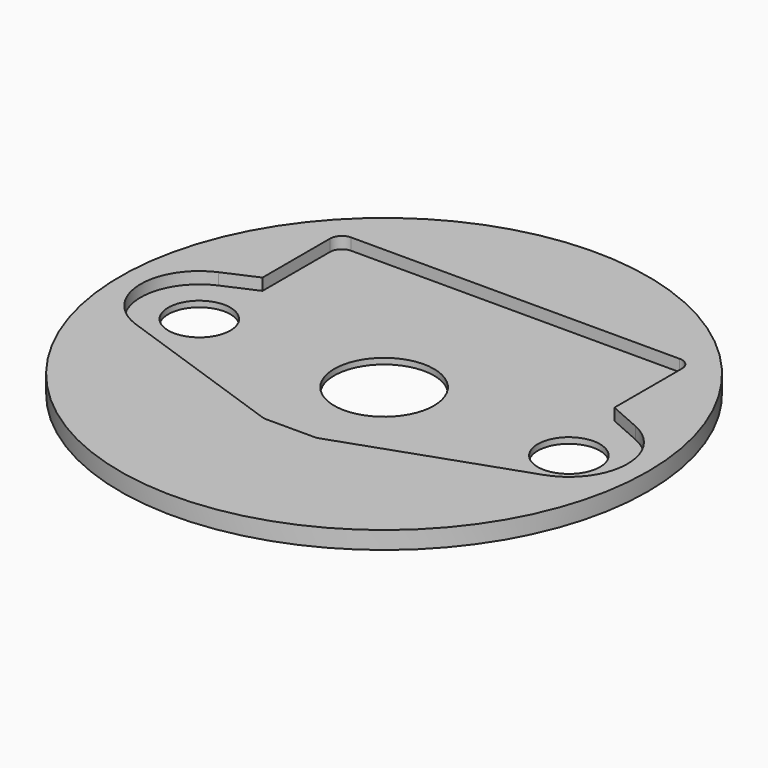
from build123d import *

# Parameters (mm, degrees)
SKETCH_R      = 22.5
PAD_DEPTH     = 1
SKETCH001_R   = 22.5
PAD001_DEPTH  = 0.5
SKETCH002_R   = 4.25
SKETCH002_R_2 = 2.65
POCKET_DEPTH  = 1.501
FILLET_R      = 1
FILLET001_R   = 1


with BuildPart() as part:
    # Sketch → Pad (new body)
    with BuildSketch(Plane.XY):
        Circle(SKETCH_R)
        with BuildLine():
            ThreePointArc((17.39553, -4.721465), (20.746006, -0.199818), (17.767345, 4.574967))
            Line((15, 5.795235), (17.767345, 4.574967))
            Line((15, 14), (15, 5.795235))
            Line((-15, 14), (15, 14))
            Line((-15, 14), (-15, 5.795235))
            Line((-17.767345, 4.574967), (-15, 5.795235))
            ThreePointArc((-17.767345, 4.574967), (-20.746006, -0.199818), (-17.39553, -4.721465))
            Line((-17.39553, -4.721465), (-2.25, -10))
            Line((-2.25, -10), (2.25, -10))
            Line((17.39553, -4.721465), (2.25, -10))
        make_face(mode=Mode.SUBTRACT)
    extrude(amount=PAD_DEPTH)

    # Sketch001 (on Face12 of Pad) → Pad001 (join)
    with BuildSketch(Plane(origin=(0, 0, 0), x_dir=(1, 0, 0), z_dir=(0, 0, -1))):
        Circle(SKETCH001_R)
    extrude(amount=PAD001_DEPTH)

    # Sketch002 (on Face4 of Pad001) → Pocket (cut, through all)
    with BuildSketch(Plane(origin=(0, 0, -0.5), x_dir=(1, 0, 0), z_dir=(0, 0, -1))):
        Circle(SKETCH002_R)
        with Locations((-15.75, 0)):
            Circle(SKETCH002_R_2)
        with Locations((15.75, 0)):
            Circle(SKETCH002_R_2)
    extrude(amount=-POCKET_DEPTH, mode=Mode.SUBTRACT)

    # Fillet
    fillet_edges = [part.edges().sort_by_distance(p)[0] for p in [
        (15, 14, 0.5),
        (-15, 14, 0.5),
    ]]
    fillet(fillet_edges, radius=FILLET_R)

    # Fillet001
    fillet001_edges = [part.edges().sort_by_distance(p)[0] for p in [
        (-2.25, -10, 0.5),
        (2.25, -10, 0.5),
    ]]
    fillet(fillet001_edges, radius=FILLET001_R)


solid = part.part
